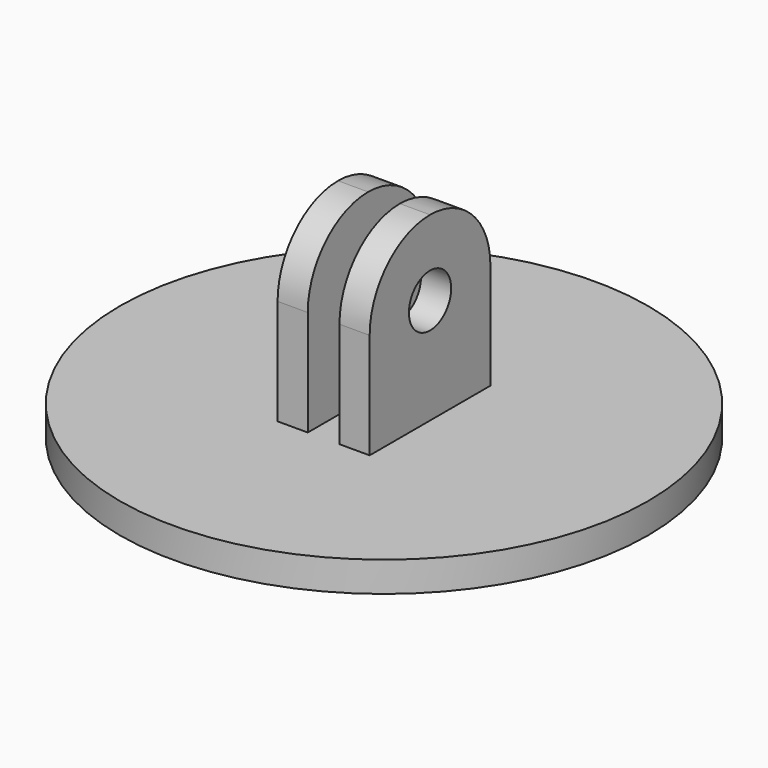
from build123d import *

# Parameters (mm, degrees)
F1_DEPTH = 12
F0_R     = 17.5
F2_DEPTH = 2
F3_R     = 1.75
F4_DEPTH = 25


with BuildPart() as f1:
    # F0 (on Top) → F1 (new body)
    with BuildSketch(Plane.XY):
        Polygon((-3.05, 5), (-3.05, 0), (-3.05, -5), (-1.05, -5), (-1.05, 0), (-1.05, 5), align=None)
        Polygon((3.05, 0), (3.05, 5), (1.05, 5), (1.05, 0), (1.05, -5), (3.05, -5), align=None)
    extrude(amount=F1_DEPTH)

    # F3 (on face) → F4 (cut)
    with BuildSketch(Plane(origin=(-3.05, 0, 0), x_dir=(0, -1, 0), z_dir=(-1, 0, 0))):
        with BuildLine():
            ThreePointArc((0, 12), (3.535534, 10.535534), (5, 7))
            Line((5, 7), (5, 12))
            Line((5, 12), (0, 12))
        make_face()
        with Locations((0, 7)):
            Circle(F3_R)
        with BuildLine():
            ThreePointArc((-5, 7), (-3.535534, 10.535534), (0, 12))
            Line((0, 12), (-5, 12))
            Line((-5, 12), (-5, 7))
        make_face()
    extrude(amount=-F4_DEPTH, mode=Mode.SUBTRACT)


with BuildPart() as f2:
    # F0 (on Top) → F2 (new body)
    with BuildSketch(Plane.XY):
        Circle(F0_R)
        Polygon((-3.05, -5), (-3.05, 0), (-3.05, 5), (-1.05, 5), (-1.05, 0), (-1.05, -5), align=None, mode=Mode.SUBTRACT)
        Polygon((1.05, 5), (3.05, 5), (3.05, 0), (3.05, -5), (1.05, -5), (1.05, 0), align=None, mode=Mode.SUBTRACT)
        Polygon((-3.05, 5), (-3.05, 0), (-3.05, -5), (-1.05, -5), (-1.05, 0), (-1.05, 5), align=None)
        Polygon((3.05, 0), (3.05, 5), (1.05, 5), (1.05, 0), (1.05, -5), (3.05, -5), align=None)
    extrude(amount=-F2_DEPTH)


solid = Compound([f1.part, f2.part])
